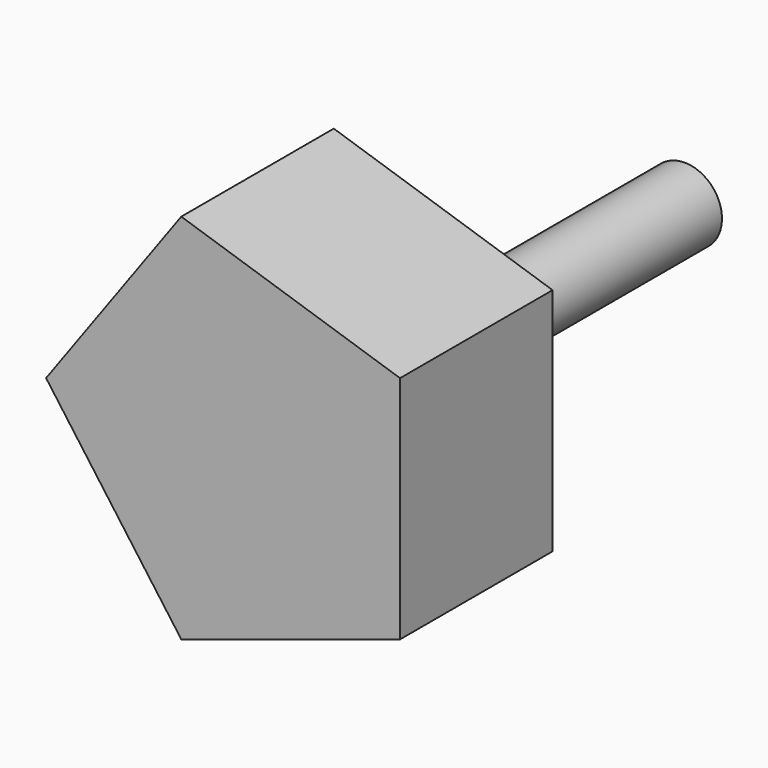
from build123d import *

# Parameters (mm, degrees)
F1_DEPTH = 76.2
F3_DEPTH = 63.5
F4_R     = 14.889155
F5_DEPTH = 203.2


with BuildPart() as f1:
    # F0 (on Front) → F1 (new body)
    with BuildSketch(Plane.XZ):
        Polygon((-24.165607, 74.374091), (-78.201547, 0), (-24.165607, -74.374091), (63.266381, -45.965716), (63.266381, 45.965716), align=None)
    extrude(amount=F1_DEPTH)

    # F2 (on face) → F3 (cut)
    with BuildSketch(Plane(origin=(0, 0, 0), x_dir=(-1, 0, 0), z_dir=(0, 1, 0))):
        Polygon((-23.337874, 45.790973), (-50.761603, -8.045448), (-8.034522, -50.763333), (45.795995, -23.328017), (36.338004, 36.345826), align=None)
    extrude(amount=-F3_DEPTH, mode=Mode.SUBTRACT)

    # F4 (on face) → F5 (join)
    with BuildSketch(Plane(origin=(0, -63.5, 0), x_dir=(-1, 0, 0), z_dir=(0, 1, 0))):
        with Locations((-4.347364, 0)):
            Circle(F4_R)
    extrude(amount=F5_DEPTH)


solid = f1.part
